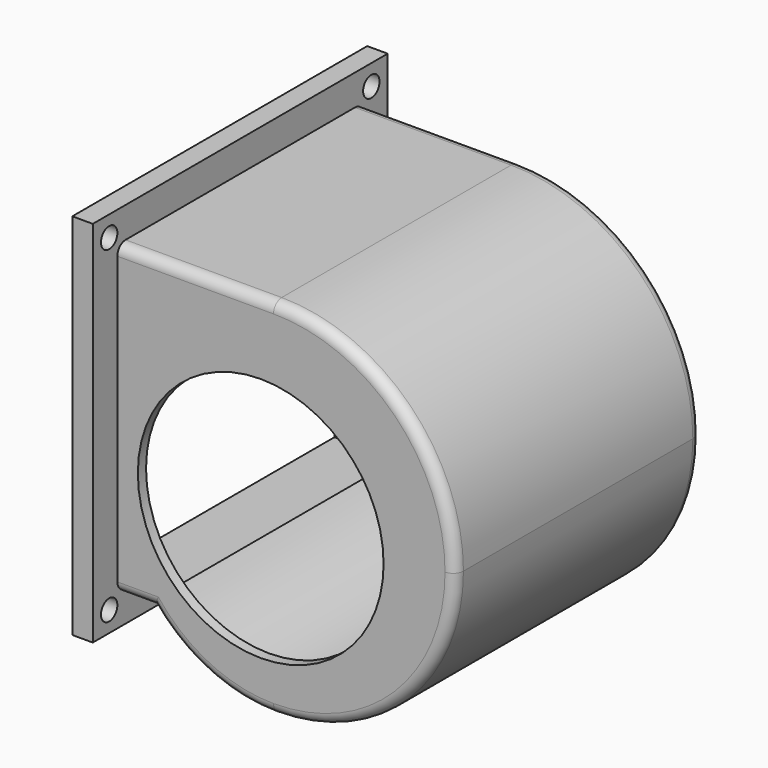
from build123d import *

# Parameters (mm, degrees)
PAD_DEPTH       = 28
THICKNESS_T     = 2
SKETCH001_R     = 24
POCKET_DEPTH    = 60.001
FILLET_R        = 1.9
SKETCH002_W     = 72
SKETCH002_H     = 72
SKETCH002_W_2   = 56
SKETCH002_H_2   = 56
PAD001_DEPTH    = 4
SKETCH003_R     = 2
POCKET001_DEPTH = 5


with BuildPart() as part:
    # Sketch → Pad (new body, symmetric)
    with BuildSketch(Plane.XZ):
        with BuildLine():
            Line((-32, -20), (-32, 36))
            Line((-32, 36), (2.5, 36))
            ThreePointArc((36, 2.5), (26.188077, 26.188077), (2.5, 36))
            ThreePointArc((2.5, -31), (26.188077, -21.188077), (36, 2.5))
            ThreePointArc((-19.994444, -20), (-10.019984, -28.102734), (2.5, -31))
            Line((-32, -20), (-19.994444, -20))
        make_face()
    extrude(amount=PAD_DEPTH, both=True)

    # Thickness
    thickness_openings = [part.faces().sort_by_distance(p)[0] for p in [
        (-32, 0, 8),
    ]]
    offset(amount=THICKNESS_T, openings=thickness_openings)

    # Sketch001 (on Face16 of Thickness) → Pocket (cut, through all)
    with BuildSketch(Plane.XZ.offset(30)):
        Circle(SKETCH001_R)
    extrude(amount=-POCKET_DEPTH, mode=Mode.SUBTRACT)

    # Fillet
    fillet_edges = [part.edges().sort_by_distance(p)[0] for p in [
        (-24, 30, 0),
    ]]
    fillet(fillet_edges, radius=FILLET_R)

    # Sketch002 (on Face3 of Fillet) → Pad001 (join)
    with BuildSketch(Plane(origin=(-32, 0, 0), x_dir=(0, -1, 0), z_dir=(-1, 0, 0))):
        with Locations((0, 8)):
            Rectangle(SKETCH002_W, SKETCH002_H)
        with Locations((0, 8)):
            Rectangle(SKETCH002_W_2, SKETCH002_H_2, mode=Mode.SUBTRACT)
    extrude(amount=-PAD001_DEPTH)

    # Sketch003 (on Face25 of Pad001) → Pocket001 (cut)
    with BuildSketch(Plane(origin=(-32, 0, 0), x_dir=(0, -1, 0), z_dir=(-1, 0, 0))):
        with Locations((-32, 40)):
            Circle(SKETCH003_R)
        with Locations((32, 40)):
            Circle(SKETCH003_R)
        with Locations((32, -24)):
            Circle(SKETCH003_R)
        with Locations((-32, -24)):
            Circle(SKETCH003_R)
    extrude(amount=-POCKET001_DEPTH, mode=Mode.SUBTRACT)


solid = part.part
